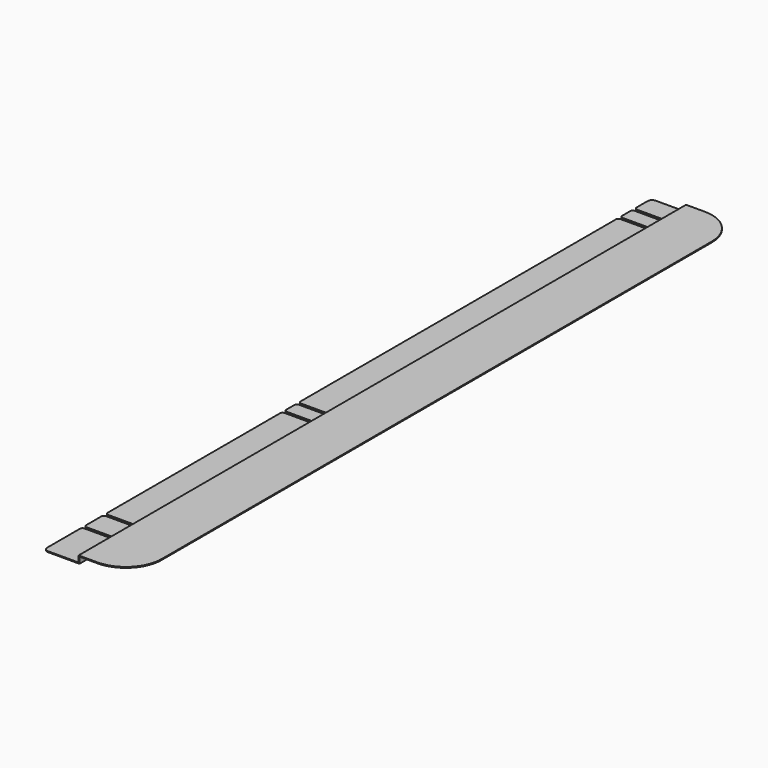
from build123d import *

# Parameters (mm, degrees)
F1_DEPTH = 8
F2_R     = 3
F3_W     = 40
F3_H     = 7
F3_W_2   = 34
F3_W_3   = 25
F4_DEPTH = 1039


with BuildPart() as f1:
    # F0 (on Top) → F1 (new body)
    with BuildSketch(Plane.XY):
        with BuildLine():
            Line((-40, 795), (-95, 795))
            ThreePointArc((-95, 795), (-98.535534, 793.535534), (-100, 790))
            Line((-100, 790), (-100, 771.5))
            Line((-100, 771.5), (-70, 771.5))
            ThreePointArc((-70, 771.5), (-68.93934, 771.06066), (-68.5, 770))
            ThreePointArc((-68.5, 770), (-68.93934, 768.93934), (-70, 768.5))
            Line((-70, 768.5), (-100, 768.5))
            Line((-100, 768.5), (-100, 751.5))
            Line((-100, 751.5), (-70, 751.5))
            ThreePointArc((-70, 751.5), (-68.93934, 751.06066), (-68.5, 750))
            ThreePointArc((-68.5, 750), (-68.93934, 748.93934), (-70, 748.5))
            Line((-70, 748.5), (-100, 748.5))
            Line((-100, 748.5), (-100, 301.5))
            Line((-100, 301.5), (-70, 301.5))
            ThreePointArc((-70, 301.5), (-68.93934, 301.06066), (-68.5, 300))
            ThreePointArc((-68.5, 300), (-68.93934, 298.93934), (-70, 298.5))
            Line((-70, 298.5), (-100, 298.5))
            Line((-100, 298.5), (-100, 281.5))
            Line((-100, 281.5), (-70, 281.5))
            ThreePointArc((-70, 281.5), (-68.93934, 281.06066), (-68.5, 280))
            ThreePointArc((-68.5, 280), (-68.93934, 278.93934), (-70, 278.5))
            Line((-70, 278.5), (-100, 278.5))
            Line((-100, 278.5), (-100, 31.5))
            Line((-100, 31.5), (-70, 31.5))
            ThreePointArc((-70, 31.5), (-68.93934, 31.06066), (-68.5, 30))
            ThreePointArc((-68.5, 30), (-68.93934, 28.93934), (-70, 28.5))
            Line((-70, 28.5), (-100, 28.5))
            Line((-100, 28.5), (-100, 1.5))
            Line((-100, 1.5), (-70, 1.5))
            ThreePointArc((-70, 1.5), (-68.93934, 1.06066), (-68.5, 0))
            ThreePointArc((-68.5, 0), (-68.93934, -1.06066), (-70, -1.5))
            Line((-70, -1.5), (-100, -1.5))
            Line((-100, -1.5), (-100, -50))
            ThreePointArc((-100, -50), (-98.535534, -53.535534), (-95, -55))
            Line((-95, -55), (-40, -55))
            ThreePointArc((-40, -55), (-11.715729, -43.284271), (0, -15))
            Line((0, -15), (0, 755))
            ThreePointArc((0, 755), (-11.715729, 783.284271), (-40, 795))
        make_face()
    extrude(amount=F1_DEPTH)

    # F2
    f2_edges = [f1.edges().sort_by_distance(p)[0] for p in [
        (-100, 771.5, 4),
        (-100, 768.5, 4),
        (-100, 751.5, 4),
        (-100, 748.5, 4),
        (-100, 301.5, 4),
        (-100, 298.5, 4),
        (-100, 281.5, 4),
        (-100, 278.5, 4),
        (-100, 31.5, 4),
        (-100, 28.5, 4),
        (-100, 1.5, 4),
        (-100, -1.5, 4),
    ]]
    fillet(f2_edges, radius=F2_R)

    # F3 (on face) → F4 (cut)
    with BuildSketch(Plane.XZ.offset(55)):
        Polygon((-40, 0), (-40, 7), (-60, 7), (-60, 1), (-60, 0), align=None)
        with Locations((-20, 3.5)):
            Rectangle(F3_W, F3_H)
        with Locations((-78, 4.5)):
            Rectangle(F3_W_2, F3_H)
        with Locations((-107.5, 4.5)):
            Rectangle(F3_W_3, F3_H)
    extrude(amount=-F4_DEPTH, mode=Mode.SUBTRACT)


solid = f1.part
